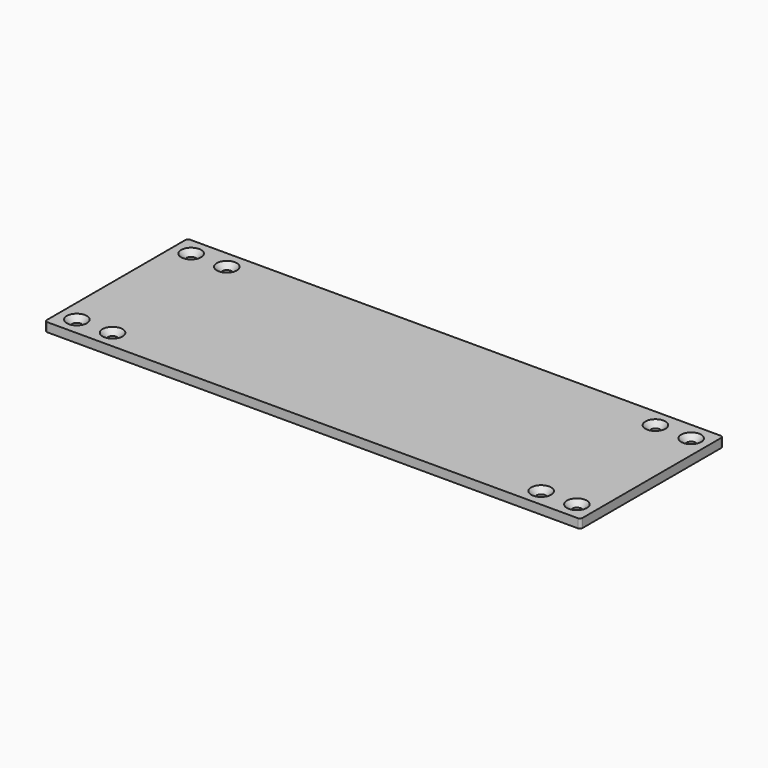
from build123d import *

# Parameters (mm, degrees)
F0_W           = 300
F0_H           = 100
F1_DEPTH       = 5
F2_D           = 5.25
F2_CSINK_D     = 11.2
F2_CSINK_ANGLE = 90
F3_R           = 1.5


with BuildPart() as f1:
    # F0 (on Top) → F1 (new body)
    with BuildSketch(Plane.XY):
        with Locations((-150, 50)):
            Rectangle(F0_W, F0_H)
    extrude(amount=-F1_DEPTH)

    # F2 (through all)
    with Locations(Plane.XY):
        with Locations((-290, 10), (-270, 10), (-30, 10), (-10, 10), (-30, 90), (-10, 90), (-290, 90), (-270, 90)):
            CounterSinkHole(F2_D / 2, F2_CSINK_D / 2, counter_sink_angle=F2_CSINK_ANGLE)

    # F3
    f3_edges = [f1.edges().sort_by_distance(p)[0] for p in [
        (0, 0, -2.5),
        (0, 100, -2.5),
        (-300, 0, -2.5),
        (-300, 100, -2.5),
    ]]
    fillet(f3_edges, radius=F3_R)


solid = f1.part
